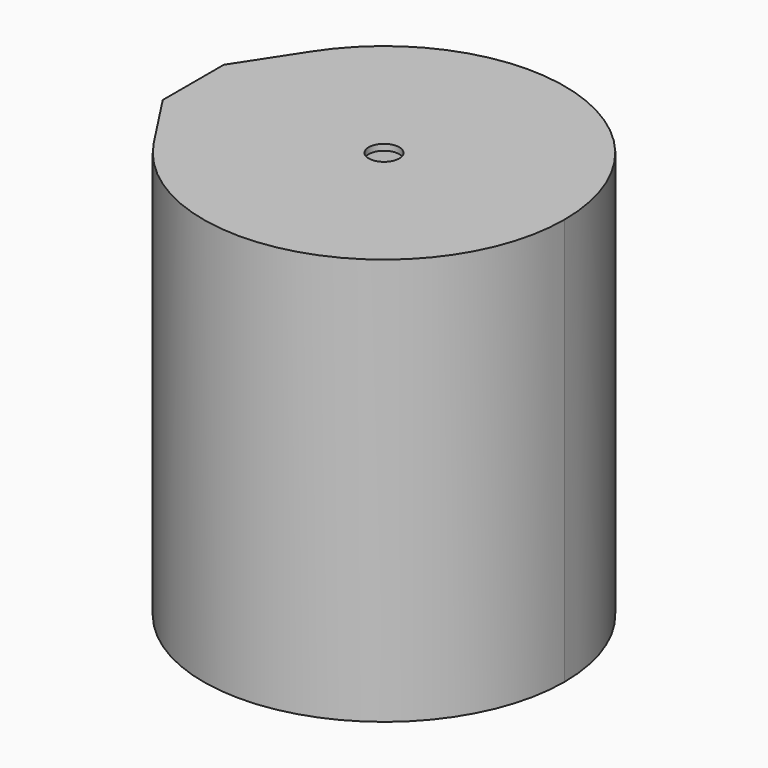
from build123d import *

# Parameters (mm, degrees)
F0_R     = 35
F0_W     = 0.9
F0_H     = 8
F1_DEPTH = 80
F2_DEPTH = 78.8
F3_DEPTH = 37
F5_D     = 6
F6_DEPTH = 2.2
F7_DEPTH = 11.5
F8_R     = 2.5


with BuildPart() as f1:
    # F0 (on Top) → F1 (new body)
    with BuildSketch(Plane.XY):
        with BuildLine():
            ThreePointArc((5.8807484886, -19.4080062609), (45.7302931295, -34.0256498123), (71.105810187, 0))
            ThreePointArc((71.105810187, 0), (45.7302931295, 34.0256498123), (5.8807484886, 19.4080062609))
            ThreePointArc((5.8807484886, 19.4080062609), (1.580160384, 10.1244829736), (0.105810187, 6.5e-08))
            ThreePointArc((0.105810187, 6.5e-08), (1.5801603655, -10.1244829114), (5.8807484886, -19.4080062609))
        make_face()
        with Locations((35.605810187, 0)):
            Circle(F0_R, mode=Mode.SUBTRACT)
        with BuildLine():
            Line((-1.8941865764, -7.5000121373), (5.8807484886, -19.4080062609))
            ThreePointArc((5.8807484886, -19.4080062609), (1.5801603655, -10.1244829114), (0.105810187, 6.5e-08))
            Line((0.105810187, 6.5e-08), (0.105810187, -7.4964140307))
            Line((0.105810187, -7.4964140307), (-1.8941865764, -7.5000121373))
        make_face()
        with BuildLine():
            ThreePointArc((0.105810187, 6.5e-08), (1.580160384, 10.1244829736), (5.8807484886, 19.4080062609))
            Line((5.8807484886, 19.4080062609), (-1.8941865764, 7.5000121373))
            Line((-1.8941865764, 7.5000121373), (-0.9941865764, 7.5016312878))
            Line((-0.9941865764, 7.5016312878), (0.105810187, 7.5016312878))
            Line((0.105810187, 7.5016312878), (0.105810187, 6.5e-08))
        make_face()
        with Locations((35.605810187, 0)):
            Circle(F0_R)
        Polygon((-0.9941865764, 7.5016312878), (-1.8941865764, 7.5000121373), (-1.8941865764, 4.0026086286), (-0.9941865764, 4.0026086286), align=None)
        Polygon((-1.8941865764, -3.9973913714), (-1.8941865764, -7.5000121373), (0.105810187, -7.4964140307), (-0.9941865764, -7.4964140307), (-0.9941865764, -3.9973913714), align=None)
        Polygon((0.105810187, -7.4964140307), (0.105810187, 6.5e-08), (0.105810187, 7.5016312878), (-0.9941865764, 7.5016312878), (-0.9941865764, 4.0026086286), (-0.0941865764, 4.0026086286), (-0.0941865764, -3.9973913714), (-0.9941865764, -3.9973913714), (-0.9941865764, -7.4964140307), align=None)
        with Locations((-0.5441865764, 0.0026086286)):
            Rectangle(F0_W, F0_H)
        Polygon((0.105810187, -7.4964140307), (0.105810187, 6.5e-08), (0.105810187, 7.5016312878), (-0.9941865764, 7.5016312878), (-0.9941865764, 4.0026086286), (-0.0941865764, 4.0026086286), (-0.0941865764, -3.9973913714), (-0.9941865764, -3.9973913714), (-0.9941865764, -7.4964140307), align=None)
        with Locations((-1.4441865764, 0.0026086286)):
            Rectangle(F0_W, F0_H)
        Polygon((0.105810187, -7.4964140307), (0.105810187, 6.5e-08), (0.105810187, 7.5016312878), (-0.9941865764, 7.5016312878), (-0.9941865764, 4.0026086286), (-0.0941865764, 4.0026086286), (-0.0941865764, -3.9973913714), (-0.9941865764, -3.9973913714), (-0.9941865764, -7.4964140307), align=None)
        Polygon((-0.9941865764, 7.5016312878), (-1.8941865764, 7.5000121373), (-1.8941865764, 4.0026086286), (-0.9941865764, 4.0026086286), align=None)
        with Locations((-1.4441865764, 0.0026086286)):
            Rectangle(F0_W, F0_H)
    extrude(amount=F1_DEPTH)

    # F0 (on Top) → F2 (cut)
    with BuildSketch(Plane.XY):
        with Locations((35.605810187, 0)):
            Circle(F0_R)
    extrude(amount=F2_DEPTH, mode=Mode.SUBTRACT)

    # F0 (on Top) → F3 (cut)
    with BuildSketch(Plane.XY):
        with Locations((-0.5441865764, 0.0026086286)):
            Rectangle(F0_W, F0_H)
        Polygon((0.105810187, -7.4964140307), (0.105810187, 6.5e-08), (0.105810187, 7.5016312878), (-0.9941865764, 7.5016312878), (-0.9941865764, 4.0026086286), (-0.0941865764, 4.0026086286), (-0.0941865764, -3.9973913714), (-0.9941865764, -3.9973913714), (-0.9941865764, -7.4964140307), align=None)
        with Locations((-1.4441865764, 0.0026086286)):
            Rectangle(F0_W, F0_H)
        Polygon((0.105810187, -7.4964140307), (0.105810187, 6.5e-08), (0.105810187, 7.5016312878), (-0.9941865764, 7.5016312878), (-0.9941865764, 4.0026086286), (-0.0941865764, 4.0026086286), (-0.0941865764, -3.9973913714), (-0.9941865764, -3.9973913714), (-0.9941865764, -7.4964140307), align=None)
        Polygon((0.105810187, -7.4964140307), (0.105810187, 6.5e-08), (0.105810187, 7.5016312878), (-0.9941865764, 7.5016312878), (-0.9941865764, 4.0026086286), (-0.0941865764, 4.0026086286), (-0.0941865764, -3.9973913714), (-0.9941865764, -3.9973913714), (-0.9941865764, -7.4964140307), align=None)
        with Locations((-1.4441865764, 0.0026086286)):
            Rectangle(F0_W, F0_H)
    extrude(amount=F3_DEPTH, mode=Mode.SUBTRACT)

    # F5 (through all)
    with Locations(Plane.XY.offset(80)):
        with Locations((35.605810187, 0)):
            Hole(F5_D / 2)

    # F0 (on Top) → F6 (cut)
    with BuildSketch(Plane.XY):
        Polygon((-1.8941865764, -3.9973913714), (-1.8941865764, -7.5000121373), (0.105810187, -7.4964140307), (-0.9941865764, -7.4964140307), (-0.9941865764, -3.9973913714), align=None)
        Polygon((-0.9941865764, 7.5016312878), (-1.8941865764, 7.5000121373), (-1.8941865764, 4.0026086286), (-0.9941865764, 4.0026086286), align=None)
    extrude(amount=F6_DEPTH, mode=Mode.SUBTRACT)

    # F7 (add): a face of the model
    f7_faces = [f1.faces().sort_by_distance(p)[0] for p in [
        (-0.7480133578, 0.0026086286, 37),
    ]]
    extrude(f7_faces, amount=F7_DEPTH)

    # F8
    f8_edges = [f1.edges().sort_by_distance(p)[0] for p in [
        (0.60581, 0, 78.8),
    ]]
    fillet(f8_edges, radius=F8_R)


solid = f1.part
